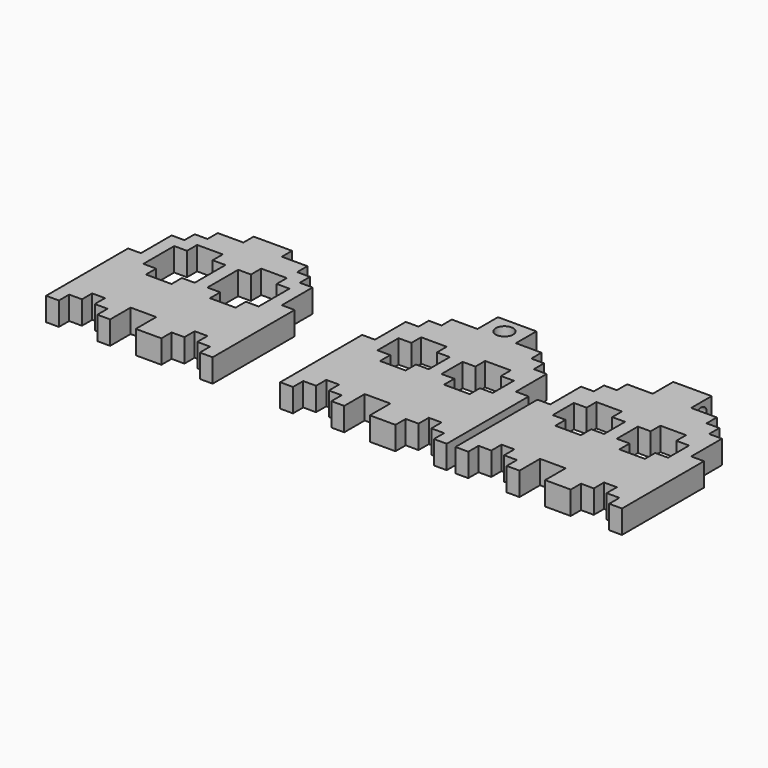
from build123d import *

# Parameters (mm, degrees)
F1_DEPTH = 4
F0_R     = 1.5
F2_R     = 1.2
F3_DEPTH = 6.6


with BuildPart() as f1:
    # F0 (on Top) → F1 (new body)
    with BuildSketch(Plane.XY):
        Polygon((-49.635447526, 43.4403642893), (-51.835447526, 43.4403642893), (-51.835447526, 41.2403642893), (-54.035447526, 41.2403642893), (-54.035447526, 34.6403642893), (-56.235447526, 34.6403642893), (-56.235447526, 17.0403642893), (-54.035447526, 17.0403642893), (-54.035447526, 19.2403642893), (-51.835447526, 19.2403642893), (-51.835447526, 21.4403642893), (-49.635447526, 21.4403642893), (-49.635447526, 19.2403642893), (-47.435447526, 19.2403642893), (-47.435447526, 17.0403642893), (-45.235447526, 17.0403642893), (-45.235447526, 21.4403642893), (-40.835447526, 21.4403642893), (-40.835447526, 17.0403642893), (-36.435447526, 17.0403642893), (-36.435447526, 19.2403642893), (-34.235447526, 19.2403642893), (-34.235447526, 21.4403642893), (-32.035447526, 21.4403642893), (-32.035447526, 19.2403642893), (-29.835447526, 19.2403642893), (-29.835447526, 17.0403642893), (-27.635447526, 17.0403642893), (-27.635447526, 34.6403642893), (-29.835447526, 34.6403642893), (-29.835447526, 41.2403642893), (-32.035447526, 41.2403642893), (-32.035447526, 43.4403642893), (-34.235447526, 43.4403642893), (-34.235447526, 45.6403642893), (-38.635447526, 45.6403642893), (-38.635447526, 47.8403642893), (-45.235447526, 47.8403642893), (-45.235447526, 45.6403642893), (-49.635447526, 45.6403642893), align=None)
        Polygon((-45.235447526, 41.2196852863), (-45.235447526, 39.0403642893), (-43.035447526, 39.0403642893), (-43.035447526, 39.0196852863), (-43.035447526, 32.4403642893), (-45.235447526, 32.4403642893), (-45.235447526, 30.2196852863), (-49.635447526, 30.2196852863), (-49.635447526, 32.4196852863), (-51.835447526, 32.4196852863), (-51.835447526, 32.4403642893), (-51.835447526, 39.0196852863), (-51.835447526, 39.0403642893), (-49.635447526, 39.0403642893), (-49.635447526, 41.2196852863), align=None, mode=Mode.SUBTRACT)
        Polygon((-34.235447526, 39.0403642893), (-32.035447526, 39.0403642893), (-32.035447526, 39.0196852863), (-32.035447526, 32.4403642893), (-32.035447526, 32.4196852863), (-34.235447526, 32.4196852863), (-34.235447526, 30.2196852863), (-38.635447526, 30.2196852863), (-38.635447526, 32.4196852863), (-40.835447526, 32.4196852863), (-40.835447526, 39.0196852863), (-38.635447526, 39.0196852863), (-38.635447526, 39.0403642893), (-38.635447526, 41.2196852863), (-34.235447526, 41.2196852863), align=None, mode=Mode.SUBTRACT)
    extrude(amount=F1_DEPTH)


with BuildPart() as f1b:
    # F0 (on Top) → F1, piece 2 (new body)
    with BuildSketch(Plane.XY):
        Polygon((-9.4354487598, 43.4403642893), (-11.6354487598, 43.4403642893), (-11.6354487598, 41.2403642893), (-13.8354487598, 41.2403642893), (-13.8354487598, 34.6403642893), (-16.0354487598, 34.6403642893), (-16.0354487598, 17.0403642893), (-13.8354487598, 17.0403642893), (-13.8354487598, 19.2403642893), (-11.6354487598, 19.2403642893), (-11.6354487598, 21.4403642893), (-9.4354487598, 21.4403642893), (-9.4354487598, 19.2403642893), (-7.2354487598, 19.2403642893), (-7.2354487598, 17.0403642893), (-5.0354487598, 17.0403642893), (-5.0354487598, 21.4403642893), (-0.6354487598, 21.4403642893), (-0.6354487598, 17.0403642893), (3.7645512402, 17.0403642893), (3.7645512402, 19.2403642893), (5.9645512402, 19.2403642893), (5.9645512402, 21.4403642893), (8.1645512402, 21.4403642893), (8.1645512402, 19.2403642893), (10.3645512402, 19.2403642893), (10.3645512402, 17.0403642893), (12.5645512402, 17.0403642893), (12.5645512402, 34.6403642893), (10.3645512402, 34.6403642893), (10.3645512402, 41.2403642893), (8.1645512402, 41.2403642893), (8.1645512402, 43.4403642893), (5.9645512402, 43.4403642893), (5.9645512402, 45.6403642893), (1.5645512402, 45.6403642893), (1.5645512402, 47.8403642893), (1.5645512402, 50.0403642893), (-5.0354487598, 50.0403642893), (-5.0354487598, 47.8403642893), (-5.0354487598, 45.6403642893), (-9.4354487598, 45.6403642893), align=None)
        Polygon((-5.0354487598, 36.9481220841), (-2.8354487598, 36.9481220841), (-2.8354487598, 32.4403642893), (-5.0354487598, 32.4403642893), (-5.0354487598, 30.2196852863), (-9.4354487598, 30.2196852863), (-9.4354487598, 32.4196852863), (-11.6354487598, 32.4196852863), (-11.6354487598, 32.4403642893), (-11.6354487598, 36.9481220841), (-9.4354487598, 36.9481220841), (-9.4354487598, 39.0196852863), (-9.4354487598, 39.0403642893), (-7.2354487598, 39.0403642893), (-5.0354487598, 39.0403642893), (-5.0354487598, 39.0196852863), align=None, mode=Mode.SUBTRACT)
        Polygon((5.9645512402, 36.9481220841), (8.1645512402, 36.9481220841), (8.1645512402, 32.4403642893), (8.1645512402, 32.4196852863), (5.9645512402, 32.4196852863), (5.9645512402, 30.2196852863), (1.5645512402, 30.2196852863), (1.5645512402, 32.4196852863), (-0.6354487598, 32.4196852863), (-0.6354487598, 36.9481220841), (1.5645512402, 36.9481220841), (1.5645512402, 39.0196852863), (1.5645512402, 39.0403642893), (5.9645512402, 39.0403642893), (5.9645512402, 39.0196852863), align=None, mode=Mode.SUBTRACT)
        with Locations((-1.7769553233, 47.363191843)):
            Circle(F0_R, mode=Mode.SUBTRACT)
    extrude(amount=F1_DEPTH)


with BuildPart() as f1c:
    # F0 (on Top) → F1, piece 3 (new body)
    with BuildSketch(Plane.XY):
        Polygon((20.6645513311, 43.4403642893), (18.4645513311, 43.4403642893), (18.4645513311, 41.2403642893), (16.2645513311, 41.2403642893), (16.2645513311, 34.6403642893), (14.0645513311, 34.6403642893), (14.0645513311, 17.0403642893), (16.2645513311, 17.0403642893), (16.2645513311, 19.2403642893), (18.4645513311, 19.2403642893), (18.4645513311, 21.4403642893), (20.6645513311, 21.4403642893), (20.6645513311, 19.2403642893), (22.8645513311, 19.2403642893), (22.8645513311, 17.0403642893), (25.0645513311, 17.0403642893), (25.0645513311, 21.4403642893), (29.4645513311, 21.4403642893), (29.4645513311, 17.0403642893), (33.8645513311, 17.0403642893), (33.8645513311, 19.2403642893), (36.0645513311, 19.2403642893), (36.0645513311, 21.4403642893), (38.2645513311, 21.4403642893), (38.2645513311, 19.2403642893), (40.4645513311, 19.2403642893), (40.4645513311, 17.0403642893), (42.6645513311, 17.0403642893), (42.6645513311, 34.6403642893), (40.4645513311, 34.6403642893), (40.4645513311, 41.2403642893), (38.2645513311, 41.2403642893), (38.2645513311, 43.4403642893), (36.0645513311, 43.4403642893), (36.0645513311, 45.6403642893), (31.6645513311, 45.6403642893), (31.6645513311, 47.8403642893), (31.6645513311, 50.0403642893), (25.0645513311, 50.0403642893), (25.0645513311, 47.8403642893), (25.0645513311, 45.6403642893), (20.6645513311, 45.6403642893), align=None)
        Polygon((25.0645513311, 36.9481220841), (27.2645513311, 36.9481220841), (27.2645513311, 32.4403642893), (25.0645513311, 32.4403642893), (25.0645513311, 30.2196852863), (20.6645513311, 30.2196852863), (20.6645513311, 32.4196852863), (18.4645513311, 32.4196852863), (18.4645513311, 32.4403642893), (18.4645513311, 36.9481220841), (20.6645513311, 36.9481220841), (20.6645513311, 39.0196852863), (20.6645513311, 39.0403642893), (22.8645513311, 39.0403642893), (25.0645513311, 39.0403642893), (25.0645513311, 39.0196852863), align=None, mode=Mode.SUBTRACT)
        Polygon((36.0645513311, 36.9481220841), (38.2645513311, 36.9481220841), (38.2645513311, 32.4403642893), (38.2645513311, 32.4196852863), (36.0645513311, 32.4196852863), (36.0645513311, 30.2196852863), (31.6645513311, 30.2196852863), (31.6645513311, 32.4196852863), (29.4645513311, 32.4196852863), (29.4645513311, 36.9481220841), (31.6645513311, 36.9481220841), (31.6645513311, 39.0196852863), (31.6645513311, 39.0403642893), (36.0645513311, 39.0403642893), (36.0645513311, 39.0196852863), align=None, mode=Mode.SUBTRACT)
    extrude(amount=F1_DEPTH)

    # F2 (on face) → F3 (cut, through all)
    with BuildSketch(Plane.YZ.offset(31.6645513311)):
        with Locations((47.7834865451, 2)):
            Circle(F2_R)
    extrude(amount=-F3_DEPTH, mode=Mode.SUBTRACT)


solid = Compound([f1.part, f1b.part, f1c.part])
